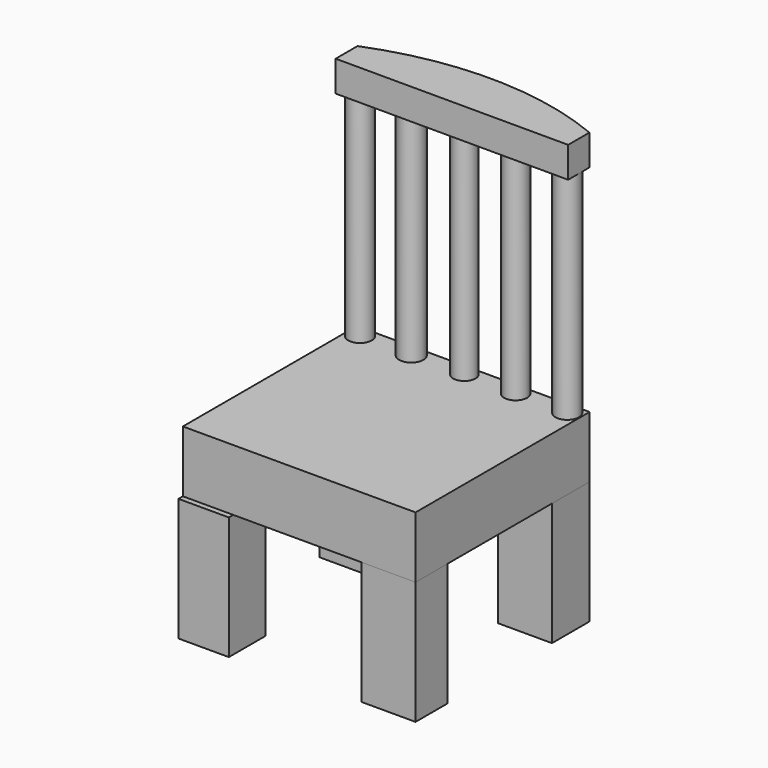
from build123d import *

# Parameters (mm, degrees)
F0_W     = 20.8225678653
F0_H     = 19.3963628262
F1_DEPTH = 50.8
F0_W_2   = 22.2487710416
F0_H_2   = 16.5439583361
F0_H_3   = 18.8258811831
F2_W     = 20.8225678653
F2_H     = 19.3963628262
F3_DEPTH = 25.4
F4_R     = 4.860759116
F4_R_2   = 4.761497945
F4_R_3   = 4.8605562173
F4_R_4   = 4.6304008171
F4_R_5   = 5.0281691991
F5_DEPTH = 88.9
F6_R     = 4.860759116
F7_DEPTH = 12.7


with BuildPart() as f1:
    # F0 (on Top) → F1 (new body)
    with BuildSketch(Plane.XY):
        with Locations((-39.7910708562, 38.3648658171)):
            Rectangle(F0_W, F0_H)
    extrude(amount=F1_DEPTH)


with BuildPart() as f1b:
    # F0 (on Top) → F1, piece 2 (new body)
    with BuildSketch(Plane.XY):
        with Locations((34.7993578762, 38.3648658171)):
            Rectangle(F0_W_2, F0_H)
    extrude(amount=F1_DEPTH)


with BuildPart() as f1c:
    # F0 (on Top) → F1, piece 3 (new body)
    with BuildSketch(Plane.XY):
        with Locations((34.7993578762, -33.5157755762)):
            Rectangle(F0_W_2, F0_H_2)
    extrude(amount=F1_DEPTH)


with BuildPart() as f1d:
    # F0 (on Top) → F1, piece 4 (new body)
    with BuildSketch(Plane.XY):
        with Locations((-39.7910708562, -34.6567369998)):
            Rectangle(F0_W, F0_H_3)
    extrude(amount=F1_DEPTH)


with BuildPart() as f3:
    # F2 (on face) → F3 (new body)
    with BuildSketch(Plane.XY.offset(50.8)):
        Polygon((45.923743397, 48.0630472302), (-29.3797869235, 48.0630472302), (-29.3797869235, 28.666684404), (-50.2023547888, 28.666684404), (-50.2023547888, -41.7877547443), (45.923743397, -41.7877547443), align=None)
        with Locations((-39.7910708562, 38.3648658171)):
            Rectangle(F2_W, F2_H)
    extrude(amount=F3_DEPTH)

    # F4 (on face) → F5 (join)
    with BuildSketch(Plane.XY.offset(76.2)):
        with Locations((-45.0206659734, 43.188072741)):
            Circle(F4_R)
        with Locations((19.273834303, 43.188072741)):
            Circle(F4_R_2)
        with Locations((40.7053343952, 43.0479981005)):
            Circle(F4_R_3)
        with Locations((-2.0175902173, 43.3281473815)):
            Circle(F4_R_4)
        with Locations((-23.671163246, 42.9980009794)):
            Circle(F4_R_5)
    extrude(amount=F5_DEPTH)


with BuildPart() as f7:
    # F6 (on face) → F7 (new body)
    with BuildSketch(Plane.XY.offset(165.1)):
        with BuildLine():
            Line((45.8758132183, 37.0628839766), (45.8758132183, 48.0479659652))
            ThreePointArc((45.8758132183, 48.0479659652), (-2.161263243, 57.6726914558), (-50.2853841197, 48.4930920324))
            Line((-50.2853841197, 48.4930920324), (-50.2853841197, 37.2148050443))
            Line((-50.2853841197, 37.2148050443), (45.8758132183, 37.0628839766))
        make_face()
        with Locations((-45.0206659734, 43.188072741)):
            Circle(F6_R, mode=Mode.SUBTRACT)
        with Locations((-45.0206659734, 43.188072741)):
            Circle(F6_R)
    extrude(amount=F7_DEPTH)


solid = Compound([f1.part, f1b.part, f1c.part, f1d.part, f3.part, f7.part])
